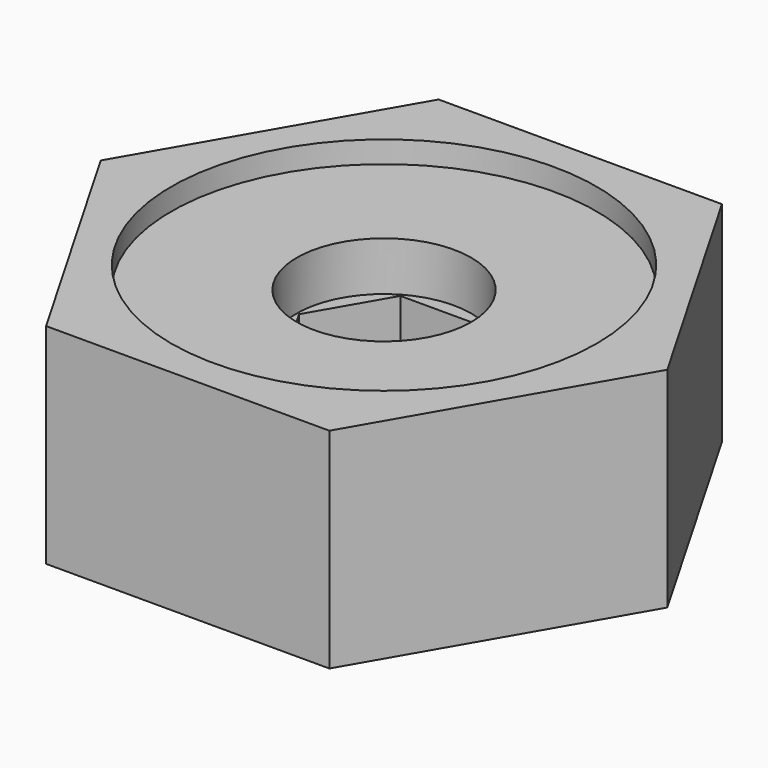
from build123d import *

# Parameters (mm, degrees)
F1_DEPTH = 0.7
F2_R     = 4.5
F3_DEPTH = 2
F5_DEPTH = 10
F6_R     = 8
F7_DEPTH = 4.5
F8_R     = 19.5
F9_DEPTH = 2


with BuildPart() as f1:
    # F0 (on Top) → F1 (new body)
    with BuildSketch(Plane.XY):
        Polygon((-12.9903810568, -22.5), (12.9903810568, -22.5), (25.9807621135, 0), (12.9903810568, 22.5), (-12.9903810568, 22.5), (-25.9807621135, 0), align=None)
    extrude(amount=F1_DEPTH)

    # F2 (on face) → F3 (join)
    with BuildSketch(Plane.XY.offset(0.7)):
        Polygon((-12.9903810568, 22.5), (-25.9807621135, 0), (-12.9903810568, -22.5), (12.9903810568, -22.5), (25.9807621135, 0), (12.9903810568, 22.5), align=None)
        Circle(F2_R, mode=Mode.SUBTRACT)
    extrude(amount=F3_DEPTH)

    # F4 (on face) → F5 (join)
    with BuildSketch(Plane.XY.offset(2.7)):
        Polygon((12.9903810568, -22.5), (25.9807621135, 0), (12.9903810568, 22.5), (-12.9903810568, 22.5), (-25.9807621135, 0), (-12.9903810568, -22.5), align=None)
        Polygon((7.7942286341, 0), (3.897114317, -6.75), (-3.897114317, -6.75), (-7.7942286341, 0), (-3.897114317, 6.75), (3.897114317, 6.75), align=None, mode=Mode.SUBTRACT)
    extrude(amount=F5_DEPTH)

    # F6 (on face) → F7 (join)
    with BuildSketch(Plane.XY.offset(12.7)):
        Polygon((-12.9903810568, -22.5), (12.9903810568, -22.5), (25.9807621135, 0), (12.9903810568, 22.5), (-12.9903810568, 22.5), (-25.9807621135, 0), align=None)
        Circle(F6_R, mode=Mode.SUBTRACT)
    extrude(amount=F7_DEPTH)

    # F8 (on face) → F9 (join)
    with BuildSketch(Plane.XY.offset(17.2)):
        Polygon((-12.9903810568, 22.5), (-25.9807621135, 0), (-12.9903810568, -22.5), (12.9903810568, -22.5), (25.9807621135, 0), (12.9903810568, 22.5), align=None)
        Circle(F8_R, mode=Mode.SUBTRACT)
    extrude(amount=F9_DEPTH)


solid = f1.part
